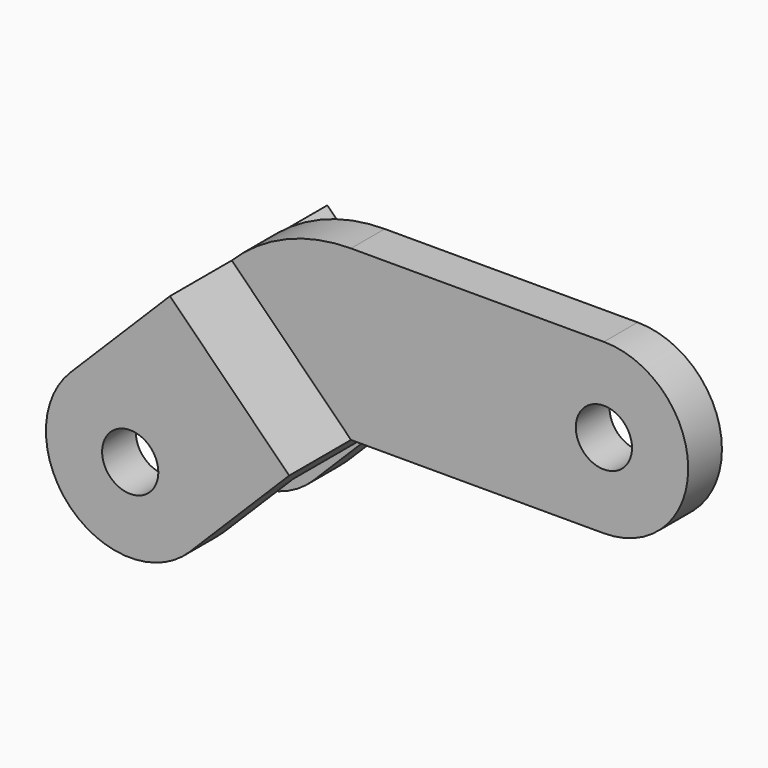
from build123d import *

# Parameters (mm, degrees)
F0_R     = 12.7
F1_DEPTH = 9.525
F2_W     = 76.2
F2_H     = 88.9
F3_DEPTH = 19.05
F4_R     = 12.7
F5_DEPTH = 19.05
F6_R     = 12.7
F7_DEPTH = 19.05


with BuildPart() as f1:
    # F0 (on Front) → F1 (new body, symmetric)
    with BuildSketch(Plane.XZ):
        with BuildLine():
            Line((-114.3, -38.1), (0, -38.1))
            ThreePointArc((0, -38.1), (38.1, 0), (0, 38.1))
            Line((0, 38.1), (-114.3, 38.1))
            ThreePointArc((-114.3, 38.1), (-143.460478, 32.29962), (-168.181537, 15.781537))
            Line((-168.181537, 15.781537), (-114.3, -38.1))
        make_face()
        Circle(F0_R, mode=Mode.SUBTRACT)
    extrude(amount=F1_DEPTH, both=True)

    # F2 (on face) → F3 (join)
    with BuildSketch(Plane(origin=(-76.2, 0, -76.2), x_dir=(0.707107, 0, -0.707107), z_dir=(-0.707107, 0, -0.707107))):
        with Locations((-91.981537, 0)):
            Rectangle(F2_W, F2_H)
    extrude(amount=F3_DEPTH)

    # F4 (on face) → F5 (join)
    with BuildSketch(Plane.XZ.offset(44.45)):
        with BuildLine():
            ThreePointArc((-213.082817, -29.119744), (-213.082817, -83.001281), (-159.201281, -83.001281))
            Line((-159.201281, -83.001281), (-114.3, -38.1))
            Line((-114.3, -38.1), (-168.181537, 15.781537))
            Line((-168.181537, 15.781537), (-213.082817, -29.119744))
        make_face()
        with Locations((-186.142049, -56.060512)):
            Circle(F4_R, mode=Mode.SUBTRACT)
    extrude(amount=-F5_DEPTH)

    # F6 (on face) → F7 (join)
    with BuildSketch(Plane(origin=(0, 44.45, 0), x_dir=(-1, 0, 0), z_dir=(0, 1, 0))):
        with BuildLine():
            Line((213.082817, -29.119744), (168.181537, 15.781537))
            Line((168.181537, 15.781537), (114.3, -38.1))
            Line((114.3, -38.1), (159.201281, -83.001281))
            ThreePointArc((159.201281, -83.001281), (213.082817, -83.001281), (213.082817, -29.119744))
        make_face()
        with Locations((186.142049, -56.060512)):
            Circle(F6_R, mode=Mode.SUBTRACT)
    extrude(amount=-F7_DEPTH)


solid = f1.part
